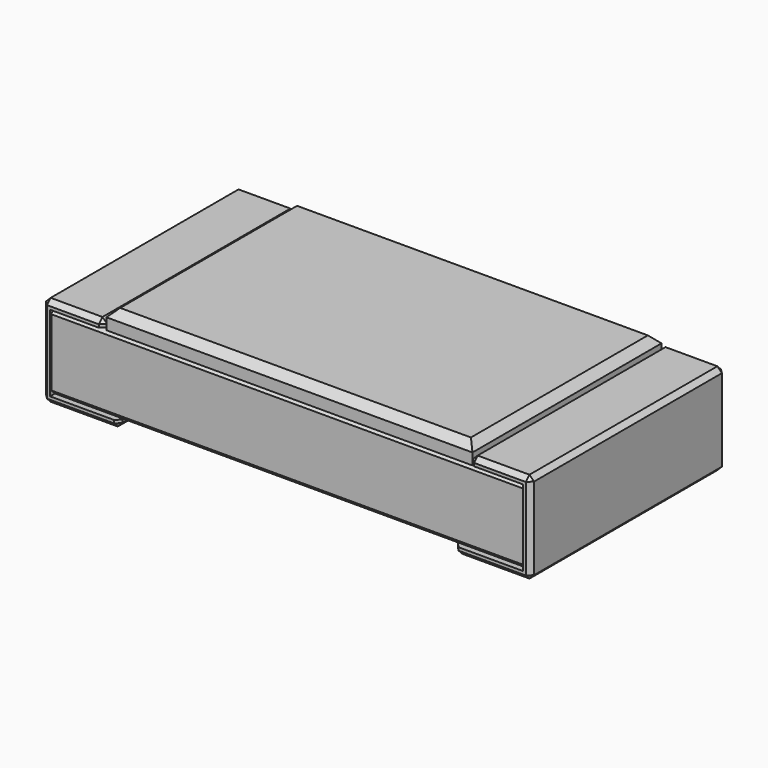
from build123d import *

# Parameters (mm, degrees)
EXTRUDE_DEPTH                  = 1.6
EXTRUDE_ONTO_SKETCH_ROLL_ANGLE = 90
CHAMFER001_SIZE                = 0.03
BOX_W                          = 3.1
BOX_H                          = 1.58
BOX_DEPTH                      = 0.5
CHAMFER_SIZE                   = 0.03
BOX001_W                       = 2.4
BOX001_H                       = 1.55
BOX001_DEPTH                   = 0.15
CHAMFER002_SIZE                = 0.05


with BuildPart() as chamferpads:
    # Sketch as drawn → Extrude (new)
    with BuildSketch(Plane.XY):
        Polygon((-1.1, 0), (-1.6, 0), (-1.6, 0.6), (-1.2, 0.6), (-1.2, 0.55), (-1.55, 0.55), (-1.55, 0.05), (-1.1, 0.05), align=None)
    extrude(amount=-EXTRUDE_DEPTH)


with BuildPart() as chamferpads_1:
    # Extrude onto Sketch roll: moved
    add(chamferpads.part.rotate(Axis((0, 0, 0), (1, 0, 0)), EXTRUDE_ONTO_SKETCH_ROLL_ANGLE))


with BuildPart() as chamferpads_2:
    # Extrude onto Sketch placement: moved
    add(chamferpads_1.part)

    # Chamfer001
    chamfer001_edges = [chamferpads_2.edges().sort_by_distance(p)[0] for p in [
        (-1.1, 0.8, 0),
        (-1.6, 0.8, 0),
        (-1.35, 0, 0),
        (-1.35, 1.6, 0),
        (-1.6, 0.8, 0.6),
        (-1.6, 0, 0.3),
        (-1.6, 1.6, 0.3),
        (-1.2, 0.8, 0.6),
        (-1.4, 0, 0.6),
        (-1.4, 1.6, 0.6),
        (-1.2, 0, 0.575),
        (-1.2, 1.6, 0.575),
        (-1.1, 0, 0.025),
        (-1.1, 1.6, 0.025),
    ]]
    chamfer(chamfer001_edges, length=CHAMFER001_SIZE)


with BuildPart() as part_mirroring:
    # Part__Mirroring: instance of ChamferPads
    add(chamferpads_2.part.mirror(Plane(origin=(0, 0, 0), x_dir=(0, -1, 0), z_dir=(1, 0, 0))))


with BuildPart() as chamferbody:
    # Box → Box (new body)
    with BuildSketch(Plane(origin=(-1.55, 0.01, 0.05), x_dir=(1, 0, 0), z_dir=(0, 0, 1))):
        with Locations((1.55, 0.79)):
            Rectangle(BOX_W, BOX_H)
    extrude(amount=BOX_DEPTH)

    # Chamfer
    chamfer_edges = [chamferbody.edges().sort_by_distance(p)[0] for p in [
        (0, 0.01, 0.05),
        (0, 0.01, 0.55),
        (0, 1.59, 0.05),
        (0, 1.59, 0.55),
    ]]
    chamfer(chamfer_edges, length=CHAMFER_SIZE)


with BuildPart() as fusion:
    # Box001 → Box001 (new body)
    with BuildSketch(Plane(origin=(-1.2, 0.025, 0.51), x_dir=(1, 0, 0), z_dir=(0, 0, 1))):
        with Locations((1.2, 0.775)):
            Rectangle(BOX001_W, BOX001_H)
    extrude(amount=BOX001_DEPTH)

    # Chamfer002
    chamfer002_edges = [fusion.edges().sort_by_distance(p)[0] for p in [
        (-1.2, 0.8, 0.66),
        (1.2, 0.8, 0.66),
        (0, 0.025, 0.66),
        (0, 1.575, 0.66),
    ]]
    chamfer(chamfer002_edges, length=CHAMFER002_SIZE)

    # Fusion: union ChamferPads, Part__Mirroring, ChamferBody
    add(chamferpads_2.part)
    add(part_mirroring.part)
    add(chamferbody.part)


with BuildPart() as fusion_1:
    # Fusion placement: moved
    add(fusion.part.moved(Location((0, -0.8, 0))))


solid = fusion_1.part
